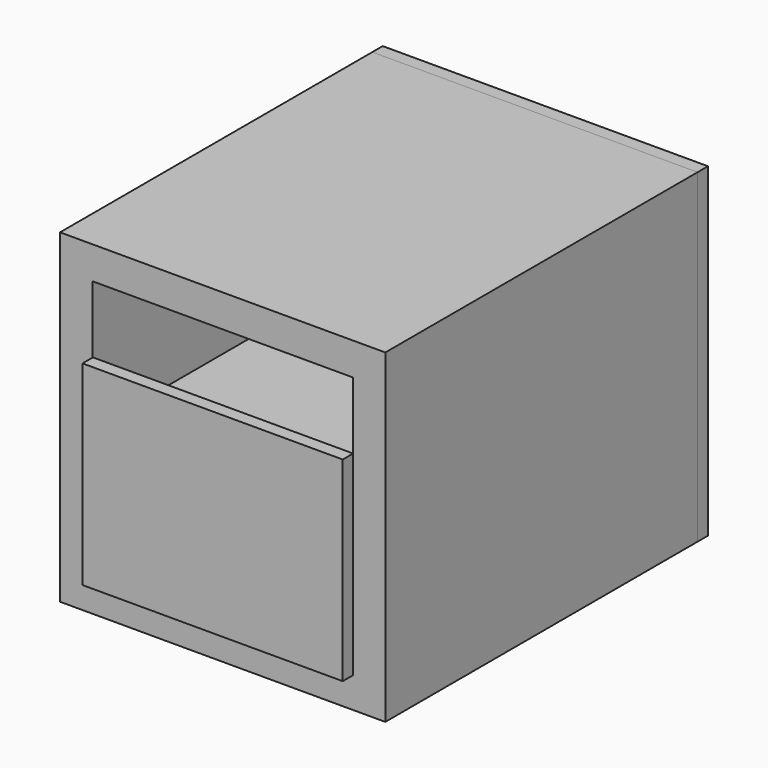
from build123d import *

# Parameters (mm, degrees)
F1_W     = 63.5
F1_H     = 63.5
F2_DEPTH = 76.2
F4_W     = 50.8
F4_H     = 25.4
F5_DEPTH = 63.5
F6_W     = 50.8
F6_H     = 38.1
F7_DEPTH = 2.54
F8_DEPTH = 2.54
F0_W     = 50.8
F0_H     = 50.8
F9_DEPTH = 76.2


with BuildPart() as f2:
    # F1 (on Front) → F2 (new body)
    with BuildSketch(Plane.XZ):
        Rectangle(F1_W, F1_H)
    extrude(amount=F2_DEPTH)


with BuildPart() as f5:
    # F4 (on offset) → F5 (new body)
    with BuildSketch(Plane.XZ.offset(2.54)):
        with Locations((-0.070810011, -12.7)):
            Rectangle(F4_W, F4_H)
    extrude(amount=F5_DEPTH)


with BuildPart() as f7:
    # F6 (on face) → F7 (new body)
    with BuildSketch(Plane.XZ.offset(76.2)):
        with Locations((0.0708062857, -6.7086147636)):
            Rectangle(F6_W, F6_H)
    extrude(amount=F7_DEPTH)


with BuildPart() as f8:
    # F8 (new): a face of the model
    f8_faces = [f2.part.faces().sort_by_distance(p)[0] for p in [
        (0, 0, 0),
    ]]
    extrude(f8_faces, amount=F8_DEPTH)


with BuildPart() as f2_1:
    add(f2.part)

    # F0 (on Front) → F9 (cut)
    with BuildSketch(Plane.XZ):
        Rectangle(F0_W, F0_H)
    extrude(amount=F9_DEPTH, mode=Mode.SUBTRACT)


solid = Compound([f5.part, f7.part, f8.part, f2_1.part])
